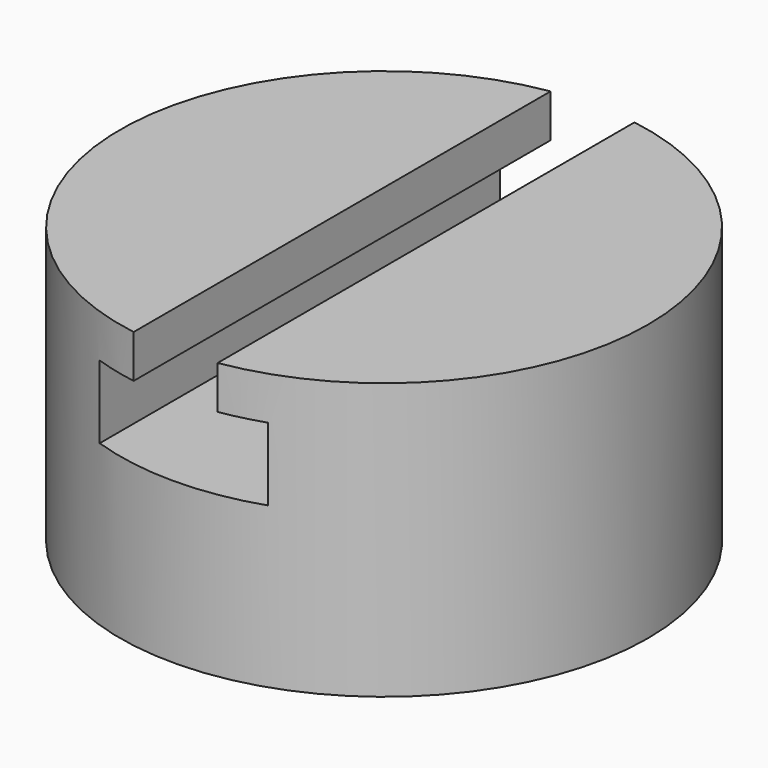
from build123d import *

# Parameters (mm, degrees)
F0_R     = 30.353
F1_DEPTH = 31.75
F2_R     = 6.35
F3_DEPTH = 18.415
F4_W     = 9.652
F4_H     = 6.5577
F5_DEPTH = 30.353
F6_R     = 3.379702
F7_DEPTH = 60.706


with BuildPart() as f1:
    # F0 (on Top) → F1 (new body)
    with BuildSketch(Plane.XY):
        Circle(F0_R)
    extrude(amount=F1_DEPTH)

    # F2 (on face) → F3 (cut)
    with BuildSketch(Plane(origin=(0, 0, 0), x_dir=(1, 0, 0), z_dir=(0, 0, -1))):
        Circle(F2_R)
    extrude(amount=-F3_DEPTH, mode=Mode.SUBTRACT)

    # F4 (on Front) → F5 (cut, symmetric)
    with BuildSketch(Plane.XZ):
        Polygon((-4.826, 26.797), (-9.6901, 26.797), (-9.6901, 18.415), (9.6901, 18.415), (9.6901, 26.797), (4.826, 26.797), align=None)
        with Locations((0, 30.07585)):
            Rectangle(F4_W, F4_H)
    extrude(amount=F5_DEPTH, both=True, mode=Mode.SUBTRACT)

    # F6 (on Right) → F7 (cut)
    with BuildSketch(Plane.YZ):
        with Locations((0, 6.477)):
            Circle(F6_R)
    extrude(amount=-F7_DEPTH, mode=Mode.SUBTRACT)


solid = f1.part
